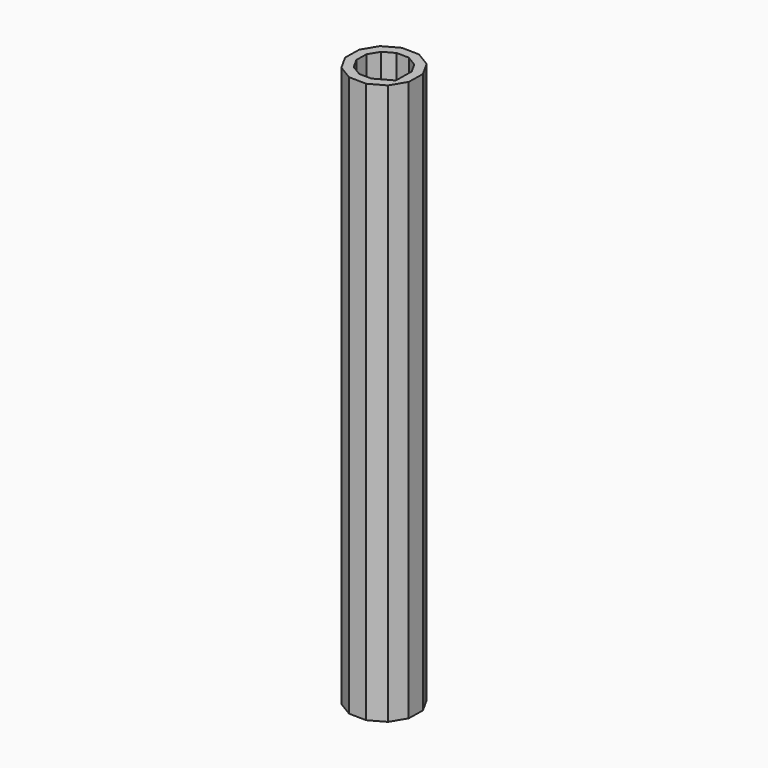
from build123d import *

# Parameters (mm, degrees)
F1_DEPTH = 1803.4
F2_T     = -30


with BuildPart() as f1:
    # F0 (on Top) → F1 (new body)
    with BuildSketch(Plane.XY):
        Polygon((-58.050863, -69.46938), (-29.354431, -21.759306), (-28.35763, 33.907045), (-55.32755, 82.613921), (-103.037623, 111.310352), (-158.703975, 112.307154), (-207.41085, 85.337233), (-236.107282, 37.62716), (-237.104083, -18.039192), (-210.134163, -66.746067), (-162.42409, -95.442498), (-106.757738, -96.4393), align=None)
    extrude(amount=F1_DEPTH)

    # F2
    f2_openings = [f1.faces().sort_by_distance(p)[0] for p in [
        (-43.702647, -45.614343, 901.7),
        (-132.730857, 7.933927, 1803.4),
    ]]
    offset(amount=F2_T, openings=f2_openings)


solid = f1.part
